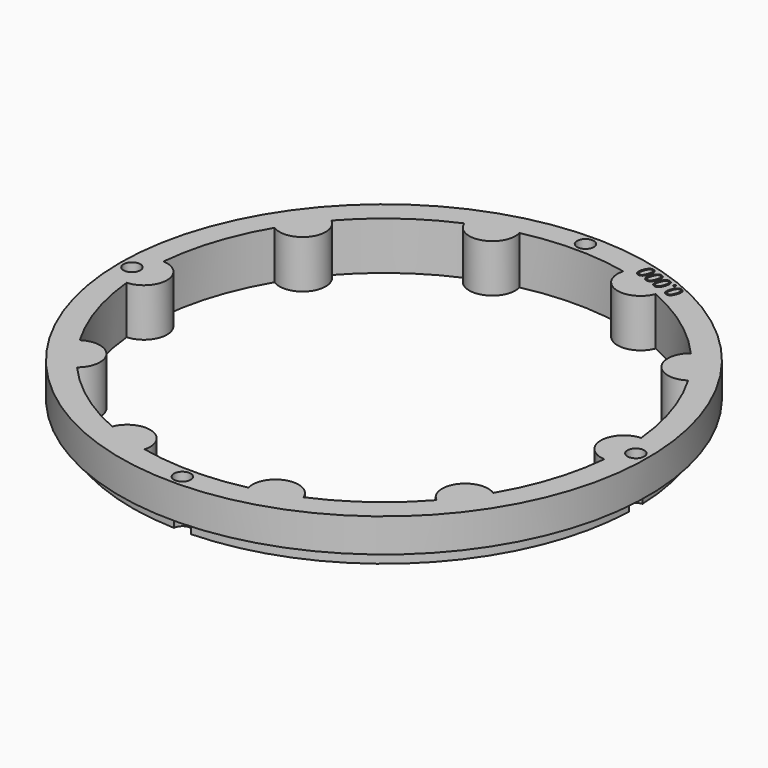
from build123d import *

# Parameters (mm, degrees)
SKETCH001_R             = 55
PAD001_DEPTH            = 10
POLARPATTERN001_COUNT   = 10
SKETCH002_R             = 55
SKETCH002_R_2           = 52.5
POCKET001_DEPTH         = 3
SKETCH003_R             = 1.75
POCKET002_DEPTH         = 321.770146
POCKET002_DEPTH_BACK    = 311.770146
POLARPATTERN002_COUNT   = 4
POCKET018_DEPTH         = 2
BODY001_ROLL_ANGLE      = 90
BODY001_PLACEMENT_ANGLE = -180


with BuildPart() as part:
    # Sketch001 → Pad001 (new body)
    with BuildSketch(Plane.XZ):
        Circle(SKETCH001_R)
        with BuildLine():
            ThreePointArc((49.7696, 4.794467), (-50, 0), (49.7696, -4.794467))
            ThreePointArc((49.7696, 4.794467), (45.2, 0), (49.7696, -4.794467))
        make_face(mode=Mode.SUBTRACT)
    pad001 = extrude(amount=PAD001_DEPTH)

    # PolarPattern001: Pad001 ×10 about axis
    polarpattern001_axis = Axis((0, 0, 0), (0, -1, 0))
    for i in range(1, POLARPATTERN001_COUNT):
        add(pad001.rotate(polarpattern001_axis, i * 360 / POLARPATTERN001_COUNT))

    # Sketch002 (on DatumPlane) → Pocket001 (cut)
    with BuildSketch(Plane.XZ.offset(10)):
        Circle(SKETCH002_R)
        Circle(SKETCH002_R_2, mode=Mode.SUBTRACT)
    extrude(amount=-POCKET001_DEPTH, mode=Mode.SUBTRACT)

    # Sketch003 (on DatumPlane) → Pocket002 (cut, two sides)
    with BuildSketch(Plane.XZ.offset(10)) as pocket002_sk:
        with Locations((52.5, 0)):
            Circle(SKETCH003_R)
    pocket002 = extrude(amount=-POCKET002_DEPTH, mode=Mode.SUBTRACT) + extrude(pocket002_sk.sketch, amount=POCKET002_DEPTH_BACK, mode=Mode.SUBTRACT)

    # PolarPattern002: Pocket002 ×4 about axis
    polarpattern002_axis = Axis((0, -10, 0), (0, -1, 0))
    for i in range(1, POLARPATTERN002_COUNT):
        add(pocket002.rotate(polarpattern002_axis, i * 360 / POLARPATTERN002_COUNT), mode=Mode.SUBTRACT)

    # Sketch038 (on Face2 of PolarPattern002) → Pocket018 (cut)
    with BuildSketch(Plane(origin=(0, 0, 0), x_dir=(1, 0, 0), z_dir=(0, 1, 0))):
        with BuildLine():
            add(Edge.make_bspline(
                [(-20.8251, -48.6129), (-20.9381, -48.9607), (-21.0797, -49.2172)],
                knots=[0, 0, 0, 1, 1, 1], degree=2))
            add(Edge.make_bspline(
                [(-21.0797, -49.2172), (-21.2211, -49.4736), (-21.3958, -49.6265)],
                knots=[0, 0, 0, 1, 1, 1], degree=2))
            add(Edge.make_bspline(
                [(-21.3958, -49.6265), (-21.5705, -49.7792), (-21.7819, -49.8196)],
                knots=[0, 0, 0, 1, 1, 1], degree=2))
            add(Edge.make_bspline(
                [(-21.7819, -49.8196), (-21.9933, -49.86), (-22.2448, -49.7783)],
                knots=[0, 0, 0, 1, 1, 1], degree=2))
            add(Edge.make_bspline(
                [(-22.2448, -49.7783), (-22.5626, -49.675), (-22.7138, -49.4336)],
                knots=[0, 0, 0, 1, 1, 1], degree=2))
            add(Edge.make_bspline(
                [(-22.7138, -49.4336), (-22.8649, -49.1923), (-22.8603, -48.8298)],
                knots=[0, 0, 0, 1, 1, 1], degree=2))
            add(Edge.make_bspline(
                [(-22.8603, -48.8298), (-22.8556, -48.4673), (-22.7045, -48.0023)],
                knots=[0, 0, 0, 1, 1, 1], degree=2))
            add(Edge.make_bspline(
                [(-22.7045, -48.0023), (-22.556, -47.5451), (-22.3565, -47.246)],
                knots=[0, 0, 0, 1, 1, 1], degree=2))
            add(Edge.make_bspline(
                [(-22.3565, -47.246), (-22.1568, -46.9469), (-21.8927, -46.8373)],
                knots=[0, 0, 0, 1, 1, 1], degree=2))
            add(Edge.make_bspline(
                [(-21.8927, -46.8373), (-21.6286, -46.7275), (-21.2894, -46.8377)],
                knots=[0, 0, 0, 1, 1, 1], degree=2))
            add(Edge.make_bspline(
                [(-21.2894, -46.8377), (-20.9677, -46.9423), (-20.8159, -47.185)],
                knots=[0, 0, 0, 1, 1, 1], degree=2))
            add(Edge.make_bspline(
                [(-20.8159, -47.185), (-20.6641, -47.4276), (-20.6697, -47.7897)],
                knots=[0, 0, 0, 1, 1, 1], degree=2))
            add(Edge.make_bspline(
                [(-20.6697, -47.7897), (-20.6753, -48.1519), (-20.8251, -48.6129)],
                knots=[0, 0, 0, 1, 1, 1], degree=2))
        make_face()
        with BuildLine():
            add(Edge.make_bspline(
                [(-22.3789, -48.108), (-22.5085, -48.5069), (-22.5345, -48.7925)],
                knots=[0, 0, 0, 1, 1, 1], degree=2))
            add(Edge.make_bspline(
                [(-22.5345, -48.7925), (-22.5604, -49.0779), (-22.4679, -49.2539)],
                knots=[0, 0, 0, 1, 1, 1], degree=2))
            add(Edge.make_bspline(
                [(-22.4679, -49.2539), (-22.3752, -49.4298), (-22.1549, -49.5014)],
                knots=[0, 0, 0, 1, 1, 1], degree=2))
            add(Edge.make_bspline(
                [(-22.1549, -49.5014), (-21.9346, -49.573), (-21.7566, -49.4861)],
                knots=[0, 0, 0, 1, 1, 1], degree=2))
            add(Edge.make_bspline(
                [(-21.7566, -49.4861), (-21.5785, -49.3991), (-21.4308, -49.1533)],
                knots=[0, 0, 0, 1, 1, 1], degree=2))
            add(Edge.make_bspline(
                [(-21.4308, -49.1533), (-21.2829, -48.9073), (-21.1526, -48.5065)],
                knots=[0, 0, 0, 1, 1, 1], degree=2))
            add(Edge.make_bspline(
                [(-21.1526, -48.5065), (-21.025, -48.1136), (-20.9994, -47.8292)],
                knots=[0, 0, 0, 1, 1, 1], degree=2))
            add(Edge.make_bspline(
                [(-20.9994, -47.8292), (-20.9738, -47.5447), (-21.0648, -47.3671)],
                knots=[0, 0, 0, 1, 1, 1], degree=2))
            add(Edge.make_bspline(
                [(-21.0648, -47.3671), (-21.1558, -47.1894), (-21.38, -47.1165)],
                knots=[0, 0, 0, 1, 1, 1], degree=2))
            add(Edge.make_bspline(
                [(-21.38, -47.1165), (-21.6042, -47.0437), (-21.7822, -47.134)],
                knots=[0, 0, 0, 1, 1, 1], degree=2))
            add(Edge.make_bspline(
                [(-21.7822, -47.134), (-21.9603, -47.2241), (-22.1058, -47.4697)],
                knots=[0, 0, 0, 1, 1, 1], degree=2))
            add(Edge.make_bspline(
                [(-22.1058, -47.4697), (-22.2513, -47.7151), (-22.3789, -48.108)],
                knots=[0, 0, 0, 1, 1, 1], degree=2))
        make_face(mode=Mode.SUBTRACT)
        with BuildLine():
            add(Edge.make_bspline(
                [(-20.7268, -49.9824), (-20.6824, -49.8459), (-20.5975, -49.81)],
                knots=[0, 0, 0, 1, 1, 1], degree=2))
            add(Edge.make_bspline(
                [(-20.5975, -49.81), (-20.5125, -49.774), (-20.4169, -49.805)],
                knots=[0, 0, 0, 1, 1, 1], degree=2))
            add(Edge.make_bspline(
                [(-20.4169, -49.805), (-20.3175, -49.8373), (-20.268, -49.9171)],
                knots=[0, 0, 0, 1, 1, 1], degree=2))
            add(Edge.make_bspline(
                [(-20.268, -49.9171), (-20.2184, -49.9967), (-20.2628, -50.1331)],
                knots=[0, 0, 0, 1, 1, 1], degree=2))
            add(Edge.make_bspline(
                [(-20.2628, -50.1331), (-20.3065, -50.2677), (-20.3947, -50.307)],
                knots=[0, 0, 0, 1, 1, 1], degree=2))
            add(Edge.make_bspline(
                [(-20.3947, -50.307), (-20.4828, -50.3462), (-20.5823, -50.3138)],
                knots=[0, 0, 0, 1, 1, 1], degree=2))
            add(Edge.make_bspline(
                [(-20.5823, -50.3138), (-20.6778, -50.2828), (-20.7242, -50.1999)],
                knots=[0, 0, 0, 1, 1, 1], degree=2))
            add(Edge.make_bspline(
                [(-20.7242, -50.1999), (-20.7705, -50.1169), (-20.7268, -49.9824)],
                knots=[0, 0, 0, 1, 1, 1], degree=2))
        make_face()
        with BuildLine():
            add(Edge.make_bspline(
                [(-17.4978, -49.694), (-17.6108, -50.0418), (-17.7523, -50.2983)],
                knots=[0, 0, 0, 1, 1, 1], degree=2))
            add(Edge.make_bspline(
                [(-17.7523, -50.2983), (-17.8938, -50.5547), (-18.0685, -50.7076)],
                knots=[0, 0, 0, 1, 1, 1], degree=2))
            add(Edge.make_bspline(
                [(-18.0685, -50.7076), (-18.2432, -50.8603), (-18.4546, -50.9007)],
                knots=[0, 0, 0, 1, 1, 1], degree=2))
            add(Edge.make_bspline(
                [(-18.4546, -50.9007), (-18.666, -50.9411), (-18.9175, -50.8594)],
                knots=[0, 0, 0, 1, 1, 1], degree=2))
            add(Edge.make_bspline(
                [(-18.9175, -50.8594), (-19.2353, -50.7561), (-19.3865, -50.5147)],
                knots=[0, 0, 0, 1, 1, 1], degree=2))
            add(Edge.make_bspline(
                [(-19.3865, -50.5147), (-19.5375, -50.2734), (-19.533, -49.9109)],
                knots=[0, 0, 0, 1, 1, 1], degree=2))
            add(Edge.make_bspline(
                [(-19.533, -49.9109), (-19.5283, -49.5484), (-19.3772, -49.0834)],
                knots=[0, 0, 0, 1, 1, 1], degree=2))
            add(Edge.make_bspline(
                [(-19.3772, -49.0834), (-19.2287, -48.6263), (-19.0292, -48.3271)],
                knots=[0, 0, 0, 1, 1, 1], degree=2))
            add(Edge.make_bspline(
                [(-19.0292, -48.3271), (-18.8295, -48.028), (-18.5654, -47.9184)],
                knots=[0, 0, 0, 1, 1, 1], degree=2))
            add(Edge.make_bspline(
                [(-18.5654, -47.9184), (-18.3013, -47.8086), (-17.9621, -47.9188)],
                knots=[0, 0, 0, 1, 1, 1], degree=2))
            add(Edge.make_bspline(
                [(-17.9621, -47.9188), (-17.6404, -48.0234), (-17.4886, -48.2661)],
                knots=[0, 0, 0, 1, 1, 1], degree=2))
            add(Edge.make_bspline(
                [(-17.4886, -48.2661), (-17.3368, -48.5087), (-17.3424, -48.8709)],
                knots=[0, 0, 0, 1, 1, 1], degree=2))
            add(Edge.make_bspline(
                [(-17.3424, -48.8709), (-17.348, -49.233), (-17.4978, -49.694)],
                knots=[0, 0, 0, 1, 1, 1], degree=2))
        make_face()
        with BuildLine():
            add(Edge.make_bspline(
                [(-19.0516, -49.1892), (-19.1812, -49.588), (-19.2072, -49.8736)],
                knots=[0, 0, 0, 1, 1, 1], degree=2))
            add(Edge.make_bspline(
                [(-19.2072, -49.8736), (-19.2331, -50.159), (-19.1406, -50.335)],
                knots=[0, 0, 0, 1, 1, 1], degree=2))
            add(Edge.make_bspline(
                [(-19.1406, -50.335), (-19.0479, -50.5109), (-18.8276, -50.5825)],
                knots=[0, 0, 0, 1, 1, 1], degree=2))
            add(Edge.make_bspline(
                [(-18.8276, -50.5825), (-18.6072, -50.6541), (-18.4293, -50.5672)],
                knots=[0, 0, 0, 1, 1, 1], degree=2))
            add(Edge.make_bspline(
                [(-18.4293, -50.5672), (-18.2512, -50.4803), (-18.1034, -50.2344)],
                knots=[0, 0, 0, 1, 1, 1], degree=2))
            add(Edge.make_bspline(
                [(-18.1034, -50.2344), (-17.9556, -49.9884), (-17.8253, -49.5876)],
                knots=[0, 0, 0, 1, 1, 1], degree=2))
            add(Edge.make_bspline(
                [(-17.8253, -49.5876), (-17.6977, -49.1947), (-17.6721, -48.9103)],
                knots=[0, 0, 0, 1, 1, 1], degree=2))
            add(Edge.make_bspline(
                [(-17.6721, -48.9103), (-17.6464, -48.6258), (-17.7375, -48.4482)],
                knots=[0, 0, 0, 1, 1, 1], degree=2))
            add(Edge.make_bspline(
                [(-17.7375, -48.4482), (-17.8285, -48.2705), (-18.0527, -48.1976)],
                knots=[0, 0, 0, 1, 1, 1], degree=2))
            add(Edge.make_bspline(
                [(-18.0527, -48.1976), (-18.2769, -48.1248), (-18.4549, -48.2151)],
                knots=[0, 0, 0, 1, 1, 1], degree=2))
            add(Edge.make_bspline(
                [(-18.4549, -48.2151), (-18.6329, -48.3053), (-18.7785, -48.5508)],
                knots=[0, 0, 0, 1, 1, 1], degree=2))
            add(Edge.make_bspline(
                [(-18.7785, -48.5508), (-18.924, -48.7962), (-19.0516, -49.1892)],
                knots=[0, 0, 0, 1, 1, 1], degree=2))
        make_face(mode=Mode.SUBTRACT)
        with BuildLine():
            add(Edge.make_bspline(
                [(-15.2186, -50.4346), (-15.3316, -50.7824), (-15.4731, -51.0389)],
                knots=[0, 0, 0, 1, 1, 1], degree=2))
            add(Edge.make_bspline(
                [(-15.4731, -51.0389), (-15.6146, -51.2952), (-15.7893, -51.4481)],
                knots=[0, 0, 0, 1, 1, 1], degree=2))
            add(Edge.make_bspline(
                [(-15.7893, -51.4481), (-15.964, -51.6009), (-16.1754, -51.6413)],
                knots=[0, 0, 0, 1, 1, 1], degree=2))
            add(Edge.make_bspline(
                [(-16.1754, -51.6413), (-16.3868, -51.6816), (-16.6383, -51.5999)],
                knots=[0, 0, 0, 1, 1, 1], degree=2))
            add(Edge.make_bspline(
                [(-16.6383, -51.5999), (-16.9561, -51.4967), (-17.1073, -51.2553)],
                knots=[0, 0, 0, 1, 1, 1], degree=2))
            add(Edge.make_bspline(
                [(-17.1073, -51.2553), (-17.2583, -51.0139), (-17.2538, -50.6514)],
                knots=[0, 0, 0, 1, 1, 1], degree=2))
            add(Edge.make_bspline(
                [(-17.2538, -50.6514), (-17.2491, -50.289), (-17.098, -49.8239)],
                knots=[0, 0, 0, 1, 1, 1], degree=2))
            add(Edge.make_bspline(
                [(-17.098, -49.8239), (-16.9495, -49.3668), (-16.75, -49.0677)],
                knots=[0, 0, 0, 1, 1, 1], degree=2))
            add(Edge.make_bspline(
                [(-16.75, -49.0677), (-16.5503, -48.7685), (-16.2862, -48.6589)],
                knots=[0, 0, 0, 1, 1, 1], degree=2))
            add(Edge.make_bspline(
                [(-16.2862, -48.6589), (-16.0221, -48.5492), (-15.6829, -48.6594)],
                knots=[0, 0, 0, 1, 1, 1], degree=2))
            add(Edge.make_bspline(
                [(-15.6829, -48.6594), (-15.3612, -48.7639), (-15.2094, -49.0067)],
                knots=[0, 0, 0, 1, 1, 1], degree=2))
            add(Edge.make_bspline(
                [(-15.2094, -49.0067), (-15.0576, -49.2492), (-15.0632, -49.6114)],
                knots=[0, 0, 0, 1, 1, 1], degree=2))
            add(Edge.make_bspline(
                [(-15.0632, -49.6114), (-15.0688, -49.9736), (-15.2186, -50.4346)],
                knots=[0, 0, 0, 1, 1, 1], degree=2))
        make_face()
        with BuildLine():
            add(Edge.make_bspline(
                [(-16.7724, -49.9297), (-16.902, -50.3286), (-16.928, -50.6142)],
                knots=[0, 0, 0, 1, 1, 1], degree=2))
            add(Edge.make_bspline(
                [(-16.928, -50.6142), (-16.9539, -50.8996), (-16.8613, -51.0755)],
                knots=[0, 0, 0, 1, 1, 1], degree=2))
            add(Edge.make_bspline(
                [(-16.8613, -51.0755), (-16.7686, -51.2515), (-16.5483, -51.3231)],
                knots=[0, 0, 0, 1, 1, 1], degree=2))
            add(Edge.make_bspline(
                [(-16.5483, -51.3231), (-16.328, -51.3947), (-16.1501, -51.3078)],
                knots=[0, 0, 0, 1, 1, 1], degree=2))
            add(Edge.make_bspline(
                [(-16.1501, -51.3078), (-15.9719, -51.2208), (-15.8242, -50.975)],
                knots=[0, 0, 0, 1, 1, 1], degree=2))
            add(Edge.make_bspline(
                [(-15.8242, -50.975), (-15.6764, -50.729), (-15.5461, -50.3282)],
                knots=[0, 0, 0, 1, 1, 1], degree=2))
            add(Edge.make_bspline(
                [(-15.5461, -50.3282), (-15.4185, -49.9353), (-15.3929, -49.6509)],
                knots=[0, 0, 0, 1, 1, 1], degree=2))
            add(Edge.make_bspline(
                [(-15.3929, -49.6509), (-15.3672, -49.3663), (-15.4583, -49.1888)],
                knots=[0, 0, 0, 1, 1, 1], degree=2))
            add(Edge.make_bspline(
                [(-15.4583, -49.1888), (-15.5492, -49.011), (-15.7734, -48.9382)],
                knots=[0, 0, 0, 1, 1, 1], degree=2))
            add(Edge.make_bspline(
                [(-15.7734, -48.9382), (-15.9977, -48.8654), (-16.1757, -48.9556)],
                knots=[0, 0, 0, 1, 1, 1], degree=2))
            add(Edge.make_bspline(
                [(-16.1757, -48.9556), (-16.3537, -49.0458), (-16.4993, -49.2914)],
                knots=[0, 0, 0, 1, 1, 1], degree=2))
            add(Edge.make_bspline(
                [(-16.4993, -49.2914), (-16.6448, -49.5368), (-16.7724, -49.9297)],
                knots=[0, 0, 0, 1, 1, 1], degree=2))
        make_face(mode=Mode.SUBTRACT)
        with BuildLine():
            add(Edge.make_bspline(
                [(-12.9394, -51.1751), (-13.0524, -51.523), (-13.1939, -51.7794)],
                knots=[0, 0, 0, 1, 1, 1], degree=2))
            add(Edge.make_bspline(
                [(-13.1939, -51.7794), (-13.3354, -52.0358), (-13.5101, -52.1887)],
                knots=[0, 0, 0, 1, 1, 1], degree=2))
            add(Edge.make_bspline(
                [(-13.5101, -52.1887), (-13.6848, -52.3415), (-13.8962, -52.3818)],
                knots=[0, 0, 0, 1, 1, 1], degree=2))
            add(Edge.make_bspline(
                [(-13.8962, -52.3818), (-14.1076, -52.4222), (-14.3591, -52.3405)],
                knots=[0, 0, 0, 1, 1, 1], degree=2))
            add(Edge.make_bspline(
                [(-14.3591, -52.3405), (-14.6769, -52.2372), (-14.8281, -51.9958)],
                knots=[0, 0, 0, 1, 1, 1], degree=2))
            add(Edge.make_bspline(
                [(-14.8281, -51.9958), (-14.9791, -51.7545), (-14.9746, -51.392)],
                knots=[0, 0, 0, 1, 1, 1], degree=2))
            add(Edge.make_bspline(
                [(-14.9746, -51.392), (-14.9699, -51.0295), (-14.8188, -50.5645)],
                knots=[0, 0, 0, 1, 1, 1], degree=2))
            add(Edge.make_bspline(
                [(-14.8188, -50.5645), (-14.6703, -50.1074), (-14.4708, -49.8082)],
                knots=[0, 0, 0, 1, 1, 1], degree=2))
            add(Edge.make_bspline(
                [(-14.4708, -49.8082), (-14.2711, -49.5091), (-14.007, -49.3995)],
                knots=[0, 0, 0, 1, 1, 1], degree=2))
            add(Edge.make_bspline(
                [(-14.007, -49.3995), (-13.7429, -49.2897), (-13.4037, -49.4)],
                knots=[0, 0, 0, 1, 1, 1], degree=2))
            add(Edge.make_bspline(
                [(-13.4037, -49.4), (-13.082, -49.5045), (-12.9302, -49.7472)],
                knots=[0, 0, 0, 1, 1, 1], degree=2))
            add(Edge.make_bspline(
                [(-12.9302, -49.7472), (-12.7784, -49.9898), (-12.784, -50.352)],
                knots=[0, 0, 0, 1, 1, 1], degree=2))
            add(Edge.make_bspline(
                [(-12.784, -50.352), (-12.7896, -50.7141), (-12.9394, -51.1751)],
                knots=[0, 0, 0, 1, 1, 1], degree=2))
        make_face()
        with BuildLine():
            add(Edge.make_bspline(
                [(-14.4932, -50.6703), (-14.6228, -51.0692), (-14.6488, -51.3547)],
                knots=[0, 0, 0, 1, 1, 1], degree=2))
            add(Edge.make_bspline(
                [(-14.6488, -51.3547), (-14.6747, -51.6402), (-14.5821, -51.8161)],
                knots=[0, 0, 0, 1, 1, 1], degree=2))
            add(Edge.make_bspline(
                [(-14.5821, -51.8161), (-14.4894, -51.9921), (-14.2691, -52.0636)],
                knots=[0, 0, 0, 1, 1, 1], degree=2))
            add(Edge.make_bspline(
                [(-14.2691, -52.0636), (-14.0488, -52.1352), (-13.8709, -52.0483)],
                knots=[0, 0, 0, 1, 1, 1], degree=2))
            add(Edge.make_bspline(
                [(-13.8709, -52.0483), (-13.6927, -51.9614), (-13.545, -51.7155)],
                knots=[0, 0, 0, 1, 1, 1], degree=2))
            add(Edge.make_bspline(
                [(-13.545, -51.7155), (-13.3971, -51.4696), (-13.2669, -51.0687)],
                knots=[0, 0, 0, 1, 1, 1], degree=2))
            add(Edge.make_bspline(
                [(-13.2669, -51.0687), (-13.1392, -50.6758), (-13.1137, -50.3914)],
                knots=[0, 0, 0, 1, 1, 1], degree=2))
            add(Edge.make_bspline(
                [(-13.1137, -50.3914), (-13.088, -50.1069), (-13.1791, -49.9293)],
                knots=[0, 0, 0, 1, 1, 1], degree=2))
            add(Edge.make_bspline(
                [(-13.1791, -49.9293), (-13.27, -49.7516), (-13.4942, -49.6788)],
                knots=[0, 0, 0, 1, 1, 1], degree=2))
            add(Edge.make_bspline(
                [(-13.4942, -49.6788), (-13.7184, -49.6059), (-13.8965, -49.6962)],
                knots=[0, 0, 0, 1, 1, 1], degree=2))
            add(Edge.make_bspline(
                [(-13.8965, -49.6962), (-14.0745, -49.7864), (-14.2201, -50.0319)],
                knots=[0, 0, 0, 1, 1, 1], degree=2))
            add(Edge.make_bspline(
                [(-14.2201, -50.0319), (-14.3655, -50.2774), (-14.4932, -50.6703)],
                knots=[0, 0, 0, 1, 1, 1], degree=2))
        make_face(mode=Mode.SUBTRACT)
    extrude(amount=-POCKET018_DEPTH, mode=Mode.SUBTRACT)


with BuildPart() as part_1:
    # Body001 roll: moved
    add(part.part.rotate(Axis((0, 0, 0), (1, 0, 0)), BODY001_ROLL_ANGLE))


with BuildPart() as part_2:
    # Body001 placement: moved
    add(part_1.part.moved(Location((-1.52, 0, 0))).rotate(Axis((-1.52, 0, 0), (0, 0, 1)), BODY001_PLACEMENT_ANGLE))


solid = part_2.part
